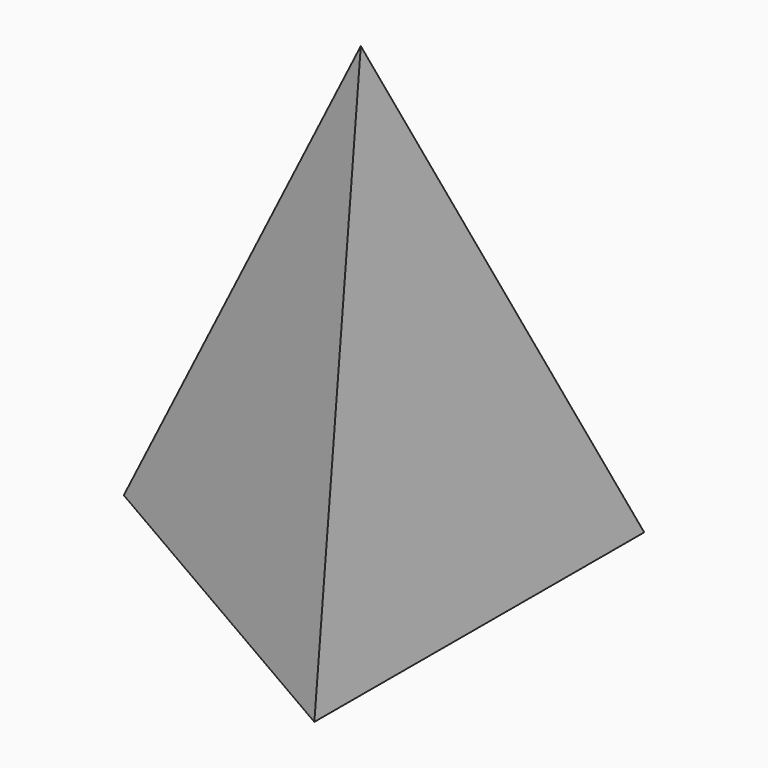
from build123d import *


with BuildPart() as f3:
    # F0 (on Top) → F3 section 0
    with BuildSketch(Plane.XY, mode=Mode.PRIVATE) as f3_s0:
        Polygon((63.525836, -110.587855), (64.008974, 110.308915), (-127.53481, 0.278939), align=None)
    loft([f3_s0.sketch, Vertex(0, 0, 254)])


solid = f3.part
